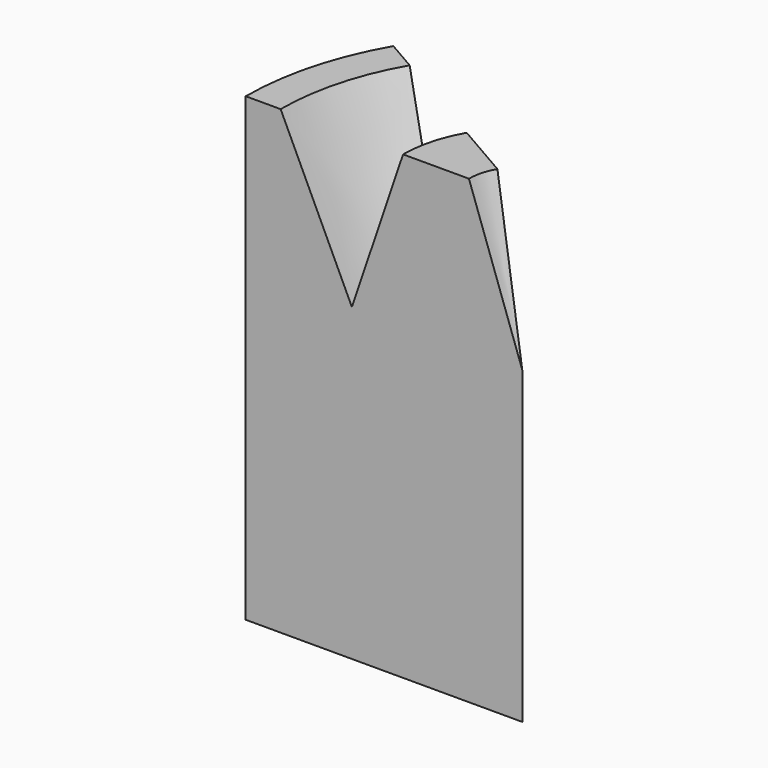
from build123d import *

# Parameters (mm, degrees)
F1_ANGLE = 30


with BuildPart() as f1:
    # F0 (on Front) → F1 (revolve)
    with BuildSketch(Plane.XZ):
        Polygon((0, -85.375826), (0, 0), (-14.692988, 41.624174), (-32.847719, 41.624174), (-46.950776, 0), (-66.58428, 41.624174), (-76.2, 41.624174), (-76.2, -85.375826), align=None)
    revolve(axis=Axis((0, 0, -21.875826), (0, 0, -1)), revolution_arc=F1_ANGLE)


solid = f1.part
